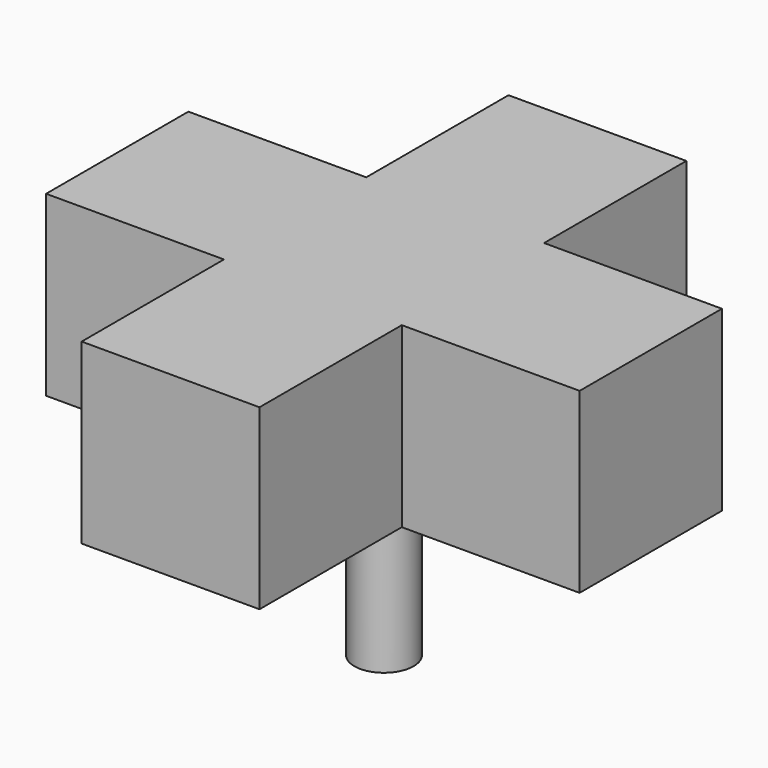
from build123d import *

# Parameters (mm, degrees)
F1_DEPTH = 30
F2_R     = 5
F3_DEPTH = 30


with BuildPart() as f1:
    # F0 (on Top) → F1 (new body)
    with BuildSketch(Plane.XY):
        Polygon((45, -15), (45, 0), (45, 15), (15, 15), (15, 45), (0, 45), (-15, 45), (-15, 15), (-45, 15), (-45, 0), (-45, -15), (-15, -15), (-15, -45), (0, -45), (15, -45), (15, -15), align=None)
    extrude(amount=F1_DEPTH)

    # F2 (on face) → F3 (join)
    with BuildSketch(Plane(origin=(0, 0, 0), x_dir=(1, 0, 0), z_dir=(0, 0, -1))):
        Circle(F2_R)
    extrude(amount=F3_DEPTH)


solid = f1.part
